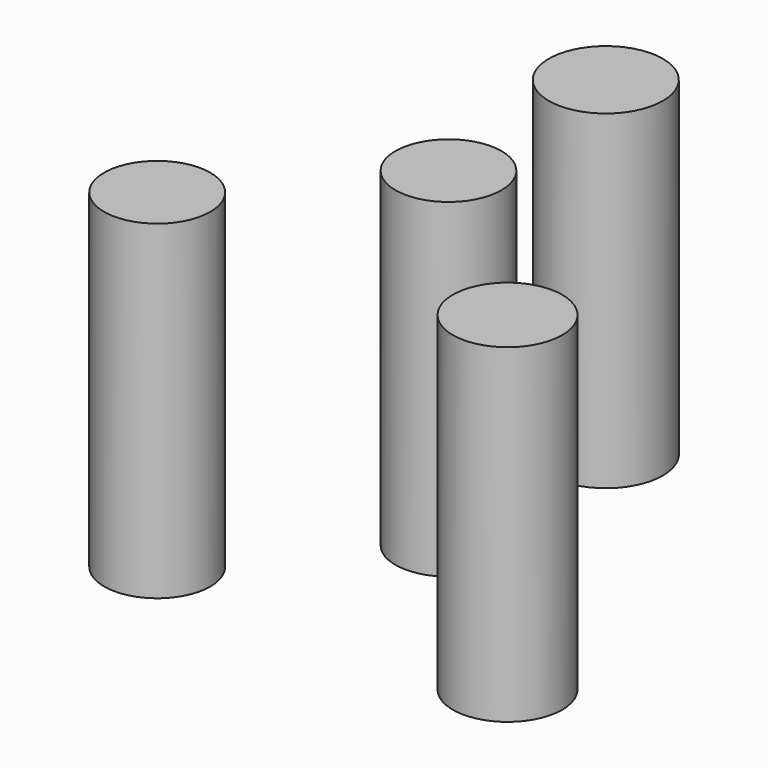
from build123d import *

# Parameters (mm, degrees)
F0_R     = 13.178566
F0_R_2   = 12.249839
F0_R_3   = 12.628841
F0_R_4   = 12.26171
F1_DEPTH = 76.2


with BuildPart() as f1:
    # F0 (on Top) → F1 (new body)
    with BuildSketch(Plane.XY):
        with Locations((0, 45.436874)):
            Circle(F0_R)
        Circle(F0_R_2)
        with Locations((43.528378, -37.362467)):
            Circle(F0_R_3)
        with Locations((-35.747588, -39.41777)):
            Circle(F0_R_4)
    extrude(amount=F1_DEPTH)


solid = f1.part
